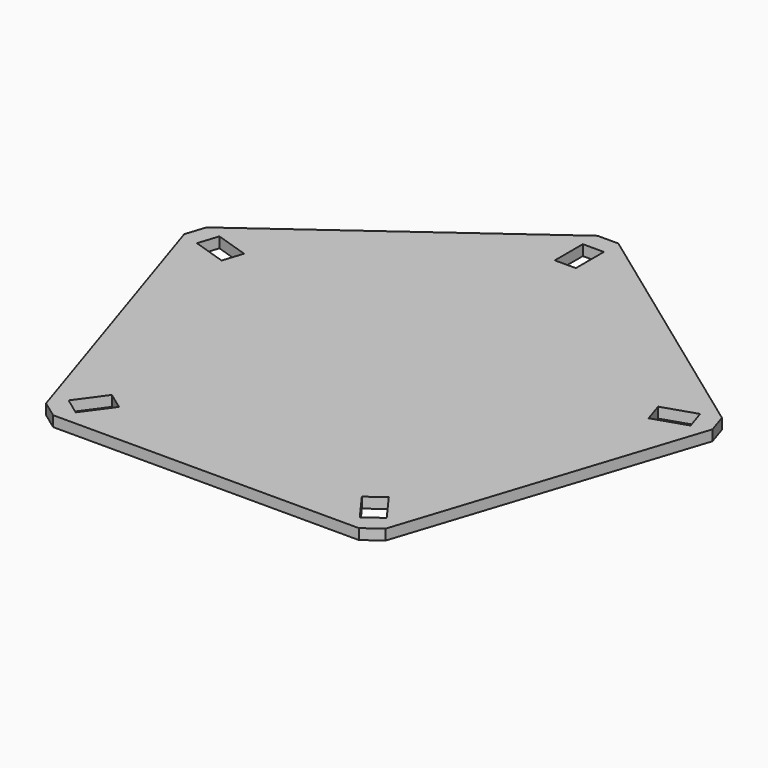
from build123d import *

# Parameters (mm, degrees)
F0_W     = 6
F0_H     = 10
F1_DEPTH = 3


with BuildPart() as f1:
    # F0 (on Top) → F1 (new body)
    with BuildSketch(Plane.XY):
        Polygon((48.401362, -61.559224), (75.341128, 21.352851), (73.503144, 27.009584), (2.973921, 78.252065), (-2.973921, 78.252065), (-73.503144, 27.009584), (-75.341128, 21.352851), (-48.401362, -61.559224), (-43.589457, -65.055277), (43.589457, -65.055277), align=None)
        Polygon((-45.365977, -57.337006), (-39.488125, -49.246836), (-34.634023, -52.773548), (-40.511875, -60.863718), align=None, mode=Mode.SUBTRACT)
        Polygon((40.511875, -60.863718), (34.634023, -52.773548), (39.488125, -49.246836), (45.365977, -57.337006), align=None, mode=Mode.SUBTRACT)
        Polygon((-68.549591, 25.427499), (-59.039026, 22.337329), (-60.893128, 16.63099), (-70.403693, 19.72116), align=None, mode=Mode.SUBTRACT)
        Polygon((70.403693, 19.72116), (60.893128, 16.63099), (59.039026, 22.337329), (68.549591, 25.427499), align=None, mode=Mode.SUBTRACT)
        with Locations((0, 68.052065)):
            Rectangle(F0_W, F0_H, mode=Mode.SUBTRACT)
    extrude(amount=F1_DEPTH)


solid = f1.part
